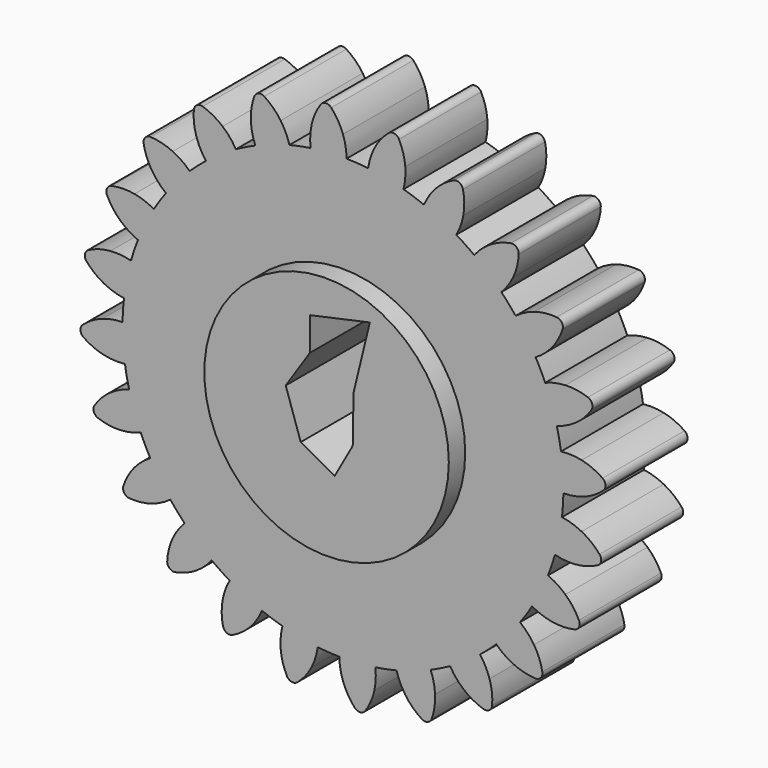
from build123d import *

# Parameters (mm, degrees)
F0_R     = 29.796112
F1_DEPTH = 25
F2_COUNT = 24
F3_DEPTH = 30


with BuildPart() as f1:
    # F0 (on Front) → F1 (new body)
    with BuildSketch(Plane.XZ):
        with BuildLine():
            ThreePointArc((-7.884268, 53.13929), (-35.088425, -40.678597), (53.721, 0))
            ThreePointArc((53.721, 0), (38.296609, 37.673805), (0.880747, 53.71378))
            ThreePointArc((0.880747, 53.71378), (-3.513522, 53.605979), (-7.884268, 53.13929))
        make_face()
        Circle(F0_R, mode=Mode.SUBTRACT)
        with BuildLine():
            ThreePointArc((-7.884268, 53.13929), (-3.513522, 53.605979), (0.880747, 53.71378))
            ThreePointArc((0.880747, 53.71378), (0.651481, 56.231374), (0, 58.674))
            ThreePointArc((0, 58.674), (-1.195628, 61.194387), (-2.856441, 63.435721))
            ThreePointArc((-2.856441, 63.435721), (-4.193813, 63.985221), (-5.44802, 63.26586))
            ThreePointArc((-5.44802, 63.26586), (-6.802071, 60.826921), (-7.658494, 58.172036))
            ThreePointArc((-7.658494, 58.172036), (-7.985574, 55.665272), (-7.884268, 53.13929))
        make_face()
    extrude(amount=F1_DEPTH)



with BuildPart() as f2_1:
    # F2: instance of F1
    add(f1.part.rotate(Axis((0, 0, 0), (0, 1, 0)), 1 * 360 / F2_COUNT))


with BuildPart() as f2_2:
    # F2: instance of F1
    add(f1.part.rotate(Axis((0, 0, 0), (0, 1, 0)), 2 * 360 / F2_COUNT))


with BuildPart() as f2_3:
    # F2: instance of F1
    add(f1.part.rotate(Axis((0, 0, 0), (0, 1, 0)), 3 * 360 / F2_COUNT))


with BuildPart() as f2_4:
    # F2: instance of F1
    add(f1.part.rotate(Axis((0, 0, 0), (0, 1, 0)), 4 * 360 / F2_COUNT))


with BuildPart() as f2_5:
    # F2: instance of F1
    add(f1.part.rotate(Axis((0, 0, 0), (0, 1, 0)), 5 * 360 / F2_COUNT))


with BuildPart() as f2_6:
    # F2: instance of F1
    add(f1.part.rotate(Axis((0, 0, 0), (0, 1, 0)), 6 * 360 / F2_COUNT))


with BuildPart() as f2_7:
    # F2: instance of F1
    add(f1.part.rotate(Axis((0, 0, 0), (0, 1, 0)), 7 * 360 / F2_COUNT))


with BuildPart() as f2_8:
    # F2: instance of F1
    add(f1.part.rotate(Axis((0, 0, 0), (0, 1, 0)), 8 * 360 / F2_COUNT))


with BuildPart() as f2_9:
    # F2: instance of F1
    add(f1.part.rotate(Axis((0, 0, 0), (0, 1, 0)), 9 * 360 / F2_COUNT))


with BuildPart() as f2_10:
    # F2: instance of F1
    add(f1.part.rotate(Axis((0, 0, 0), (0, 1, 0)), 10 * 360 / F2_COUNT))


with BuildPart() as f2_11:
    # F2: instance of F1
    add(f1.part.rotate(Axis((0, 0, 0), (0, 1, 0)), 11 * 360 / F2_COUNT))


with BuildPart() as f2_12:
    # F2: instance of F1
    add(f1.part.rotate(Axis((0, 0, 0), (0, 1, 0)), 12 * 360 / F2_COUNT))


with BuildPart() as f2_13:
    # F2: instance of F1
    add(f1.part.rotate(Axis((0, 0, 0), (0, 1, 0)), 13 * 360 / F2_COUNT))


with BuildPart() as f2_14:
    # F2: instance of F1
    add(f1.part.rotate(Axis((0, 0, 0), (0, 1, 0)), 14 * 360 / F2_COUNT))


with BuildPart() as f2_15:
    # F2: instance of F1
    add(f1.part.rotate(Axis((0, 0, 0), (0, 1, 0)), 15 * 360 / F2_COUNT))


with BuildPart() as f2_16:
    # F2: instance of F1
    add(f1.part.rotate(Axis((0, 0, 0), (0, 1, 0)), 16 * 360 / F2_COUNT))


with BuildPart() as f2_17:
    # F2: instance of F1
    add(f1.part.rotate(Axis((0, 0, 0), (0, 1, 0)), 17 * 360 / F2_COUNT))


with BuildPart() as f2_18:
    # F2: instance of F1
    add(f1.part.rotate(Axis((0, 0, 0), (0, 1, 0)), 18 * 360 / F2_COUNT))


with BuildPart() as f2_19:
    # F2: instance of F1
    add(f1.part.rotate(Axis((0, 0, 0), (0, 1, 0)), 19 * 360 / F2_COUNT))


with BuildPart() as f2_20:
    # F2: instance of F1
    add(f1.part.rotate(Axis((0, 0, 0), (0, 1, 0)), 20 * 360 / F2_COUNT))


with BuildPart() as f2_21:
    # F2: instance of F1
    add(f1.part.rotate(Axis((0, 0, 0), (0, 1, 0)), 21 * 360 / F2_COUNT))


with BuildPart() as f2_22:
    # F2: instance of F1
    add(f1.part.rotate(Axis((0, 0, 0), (0, 1, 0)), 22 * 360 / F2_COUNT))


with BuildPart() as f2_23:
    # F2: instance of F1
    add(f1.part.rotate(Axis((0, 0, 0), (0, 1, 0)), 23 * 360 / F2_COUNT))


with BuildPart() as f1_1:
    add(f1.part)

    add(f2_1.part)  # F3 merges F2_1

    add(f2_2.part)  # F3 merges F2_2

    add(f2_3.part)  # F3 merges F2_3

    add(f2_4.part)  # F3 merges F2_4

    add(f2_5.part)  # F3 merges F2_5

    add(f2_6.part)  # F3 merges F2_6

    add(f2_7.part)  # F3 merges F2_7

    add(f2_8.part)  # F3 merges F2_8

    add(f2_9.part)  # F3 merges F2_9

    add(f2_10.part)  # F3 merges F2_10

    add(f2_11.part)  # F3 merges F2_11

    add(f2_12.part)  # F3 merges F2_12

    add(f2_13.part)  # F3 merges F2_13

    add(f2_14.part)  # F3 merges F2_14

    add(f2_15.part)  # F3 merges F2_15

    add(f2_16.part)  # F3 merges F2_16

    add(f2_17.part)  # F3 merges F2_17

    add(f2_18.part)  # F3 merges F2_18

    add(f2_19.part)  # F3 merges F2_19

    add(f2_20.part)  # F3 merges F2_20

    add(f2_21.part)  # F3 merges F2_21

    add(f2_22.part)  # F3 merges F2_22

    add(f2_23.part)  # F3 merges F2_23
    # F0 (on Front) → F3 (join)
    with BuildSketch(Plane.XZ):
        Circle(F0_R)
        Polygon((-9.949334, 3.567951), (-4.070489, 12.465662), (-4.070489, 20.568935), (10.54718, 23.74669), (6.574987, 7.381256), (6.380019, -4.090482), (1.967244, -12.003045), (-6.294917, -7.395301), align=None, mode=Mode.SUBTRACT)
    extrude(amount=F3_DEPTH)


solid = f1_1.part
